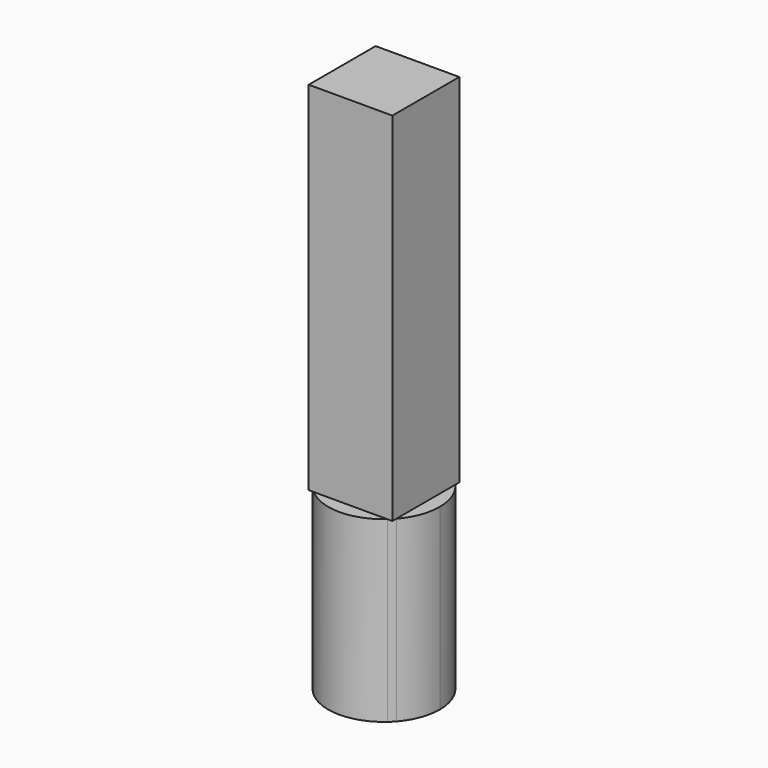
from build123d import *

# Parameters (mm, degrees)
F1_DEPTH = 10.16
F2_DEPTH = 5.08


with BuildPart() as f1:
    # F0 (on Top) → F1 (new body)
    with BuildSketch(Plane.XY):
        with BuildLine():
            Line((-1.190625, -1.190625), (-1.0500325516, -1.190625))
            ThreePointArc((-1.0500325516, -1.190625), (-1.1225320151, -1.1225320151), (-1.190625, -1.0500325516))
            Line((-1.190625, -1.0500325516), (-1.190625, -1.190625))
        make_face()
        with BuildLine():
            Line((1.190625, -1.0500325516), (1.190625, 1.0500325516))
            ThreePointArc((1.190625, 1.0500325516), (1.1225320151, 1.1225320151), (1.0500325516, 1.190625))
            Line((1.0500325516, 1.190625), (-1.0500325516, 1.190625))
            ThreePointArc((-1.0500325516, 1.190625), (-1.1225320151, 1.1225320151), (-1.190625, 1.0500325516))
            Line((-1.190625, 1.0500325516), (-1.190625, -1.0500325516))
            ThreePointArc((-1.190625, -1.0500325516), (-1.1225320151, -1.1225320151), (-1.0500325516, -1.190625))
            Line((-1.0500325516, -1.190625), (1.0500325516, -1.190625))
            ThreePointArc((1.0500325516, -1.190625), (1.1225320151, -1.1225320151), (1.190625, -1.0500325516))
        make_face()
        with BuildLine():
            ThreePointArc((-1.190625, 1.0500325516), (-1.1225320151, 1.1225320151), (-1.0500325516, 1.190625))
            Line((-1.0500325516, 1.190625), (-1.190625, 1.190625))
            Line((-1.190625, 1.190625), (-1.190625, 1.0500325516))
        make_face()
        with BuildLine():
            ThreePointArc((1.0500325516, 1.190625), (1.1225320151, 1.1225320151), (1.190625, 1.0500325516))
            Line((1.190625, 1.0500325516), (1.190625, 1.190625))
            Line((1.190625, 1.190625), (1.0500325516, 1.190625))
        make_face()
        with BuildLine():
            Line((1.190625, -1.190625), (1.190625, -1.0500325516))
            ThreePointArc((1.190625, -1.0500325516), (1.1225320151, -1.1225320151), (1.0500325516, -1.190625))
            Line((1.0500325516, -1.190625), (1.190625, -1.190625))
        make_face()
    extrude(amount=F1_DEPTH)

    # F0 (on Top) → F2 (join)
    with BuildSketch(Plane.XY):
        with BuildLine():
            ThreePointArc((-1.0500325516, -1.190625), (0, -1.5875), (1.0500325516, -1.190625))
            Line((1.0500325516, -1.190625), (-1.0500325516, -1.190625))
        make_face()
        with BuildLine():
            Line((-1.190625, -1.0500325516), (-1.190625, 1.0500325516))
            ThreePointArc((-1.190625, 1.0500325516), (-1.5875, 0), (-1.190625, -1.0500325516))
        make_face()
        with BuildLine():
            Line((1.190625, -1.0500325516), (1.190625, 1.0500325516))
            ThreePointArc((1.190625, 1.0500325516), (1.1225320151, 1.1225320151), (1.0500325516, 1.190625))
            Line((1.0500325516, 1.190625), (-1.0500325516, 1.190625))
            ThreePointArc((-1.0500325516, 1.190625), (-1.1225320151, 1.1225320151), (-1.190625, 1.0500325516))
            Line((-1.190625, 1.0500325516), (-1.190625, -1.0500325516))
            ThreePointArc((-1.190625, -1.0500325516), (-1.1225320151, -1.1225320151), (-1.0500325516, -1.190625))
            Line((-1.0500325516, -1.190625), (1.0500325516, -1.190625))
            ThreePointArc((1.0500325516, -1.190625), (1.1225320151, -1.1225320151), (1.190625, -1.0500325516))
        make_face()
        with BuildLine():
            Line((-1.0500325516, 1.190625), (1.0500325516, 1.190625))
            ThreePointArc((1.0500325516, 1.190625), (0, 1.5875), (-1.0500325516, 1.190625))
        make_face()
        with BuildLine():
            ThreePointArc((1.190625, -1.0500325516), (1.4849702754, -0.5612660076), (1.5875, 0))
            ThreePointArc((1.5875, 0), (1.4849702754, 0.5612660076), (1.190625, 1.0500325516))
            Line((1.190625, 1.0500325516), (1.190625, -1.0500325516))
        make_face()
    extrude(amount=-F2_DEPTH)


solid = f1.part
